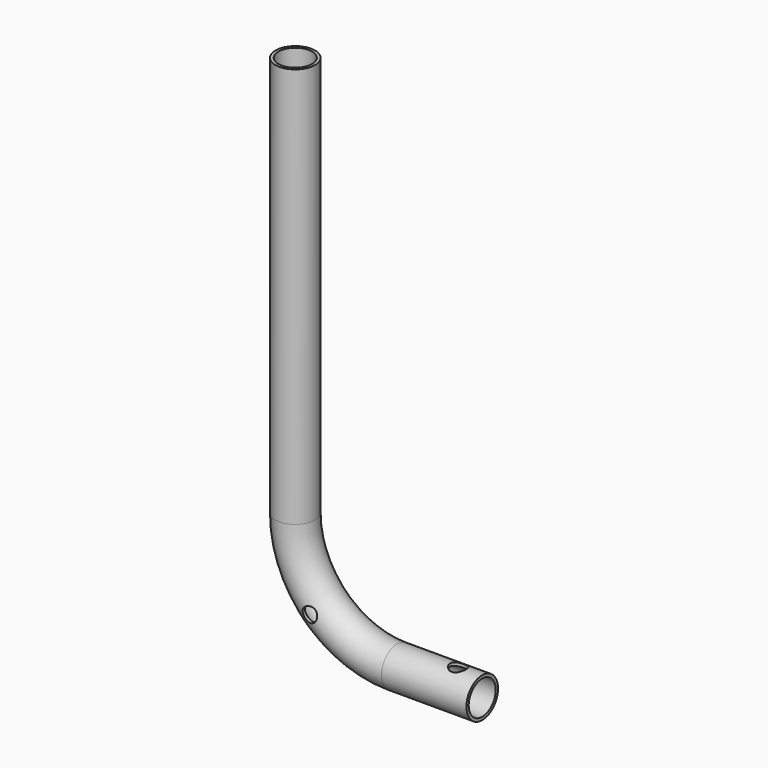
from build123d import *

# Parameters (mm, degrees)
F1_R     = 8.15
F1_R_2   = 6.95
F3_R     = 3
F4_DEPTH = 12.5
F5_R     = 3.3
F6_DEPTH = 12.5


with BuildPart() as f2:
    # F2: sweep along a path in F0
    with BuildLine(Plane.XZ) as f2_path:
        Line((0, 0), (-35, 0))
        ThreePointArc((-35, 0), (-64.6984848098, 12.3015151902), (-77, 42))
        Line((-77, 42), (-77, 207))
    # F1 (on Right) → F2 (sweep)
    with BuildSketch(Plane.YZ):
        Circle(F1_R)
        Circle(F1_R_2, mode=Mode.SUBTRACT)
    sweep(path=f2_path.line)

    # F3 (on Front) → F4 (cut, symmetric)
    with BuildSketch(Plane.XZ):
        with Locations((-64.6984848098, 12.3015151902)):
            Circle(F3_R)
    extrude(amount=F4_DEPTH, both=True, mode=Mode.SUBTRACT)

    # F5 (on Top) → F6 (cut, symmetric)
    with BuildSketch(Plane.XY):
        with Locations((-9.9, 0)):
            Circle(F5_R)
    extrude(amount=F6_DEPTH, both=True, mode=Mode.SUBTRACT)


solid = f2.part
